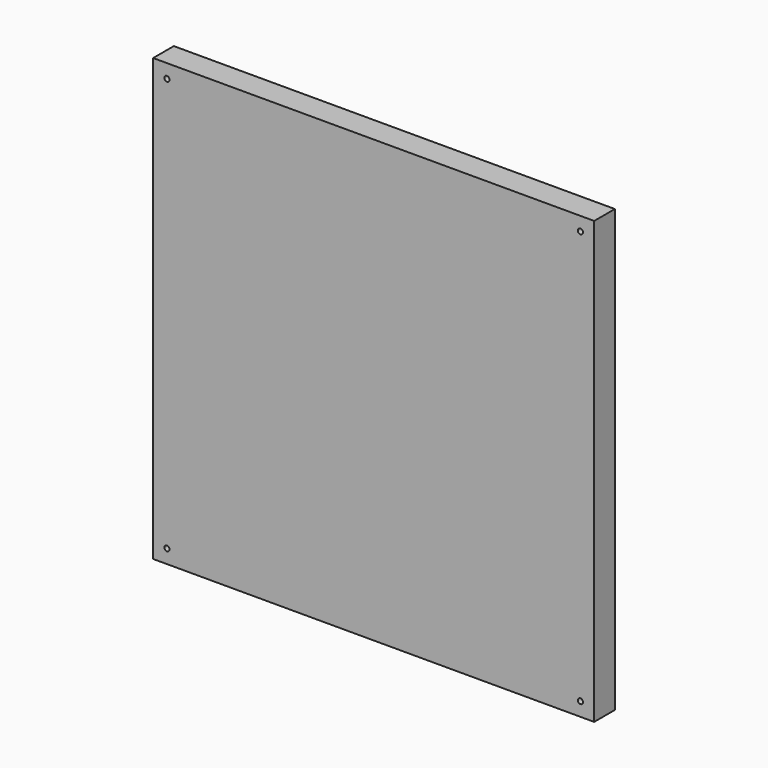
from build123d import *

# Parameters (mm, degrees)
F0_W          = 812.8
F0_H          = 812.8
F0_W_2        = 635
F0_H_2        = 635
F1_DEPTH      = 38.1
F3_W          = 812.8
F3_H          = 812.8
F4_DEPTH      = 9.525
F4_DEPTH_BACK = 25.4
F5_R          = 4.7625
F6_DEPTH      = 254


with BuildPart() as f1:
    # F0 (on Front) → F1 (new body)
    with BuildSketch(Plane.XZ):
        Rectangle(F0_W, F0_H)
        Rectangle(F0_W_2, F0_H_2, mode=Mode.SUBTRACT)
    extrude(amount=F1_DEPTH)

    # F3 (on face) → F4 (join, two sides)
    with BuildSketch(Plane.XZ.offset(38.1)) as f4_sk:
        Rectangle(F3_W, F3_H)
    extrude(amount=F4_DEPTH)
    extrude(f4_sk.sketch, amount=-F4_DEPTH_BACK)

    # F5 (on face) → F6 (cut)
    with BuildSketch(Plane(origin=(0, 0, 0), x_dir=(-1, 0, 0), z_dir=(0, 1, 0))):
        with Locations((-381, -381)):
            Circle(F5_R)
        with Locations((381, -381)):
            Circle(F5_R)
        with Locations((381, 381)):
            Circle(F5_R)
        with Locations((-381, 381)):
            Circle(F5_R)
    extrude(amount=-F6_DEPTH, mode=Mode.SUBTRACT)


solid = f1.part
